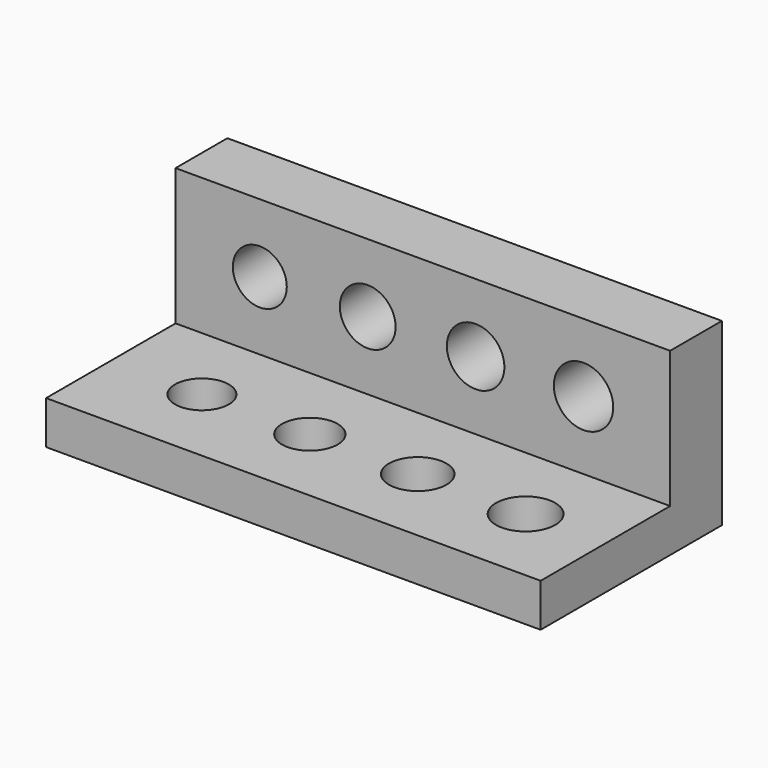
from build123d import *

# Parameters (mm, degrees)
F0_W     = 55
F0_H     = 18
F0_R     = 3
F0_R_2   = 3.1
F0_R_3   = 3.2
F0_R_4   = 3.3
F1_DEPTH = 4.8
F0_H_2   = 7.2
F2_DEPTH = 20
F3_R     = 3
F3_R_2   = 3.1
F3_R_3   = 3.2
F3_R_4   = 3.3
F4_DEPTH = 25
F5_SIZE  = 0.8


with BuildPart() as f1:
    # F0 (on Top) → F1 (new body)
    with BuildSketch(Plane.XY):
        with Locations((-27.5, -8.003877)):
            Rectangle(F0_W, F0_H)
        with Locations((-44.867948, -8.003877)):
            Circle(F0_R, mode=Mode.SUBTRACT)
        with Locations((-32.867948, -8.003877)):
            Circle(F0_R_2, mode=Mode.SUBTRACT)
        with Locations((-20.867948, -8.003877)):
            Circle(F0_R_3, mode=Mode.SUBTRACT)
        with Locations((-8.867948, -8.003877)):
            Circle(F0_R_4, mode=Mode.SUBTRACT)
    extrude(amount=F1_DEPTH)

    # F0 (on Top) → F2 (join)
    with BuildSketch(Plane.XY):
        with Locations((-27.5, 4.596123)):
            Rectangle(F0_W, F0_H_2)
    extrude(amount=F2_DEPTH)

    # F3 (on face) → F4 (cut)
    with BuildSketch(Plane.XZ.offset(-0.996123)):
        with Locations((-45.631237, 12.4)):
            Circle(F3_R)
        with Locations((-33.631237, 12.4)):
            Circle(F3_R_2)
        with Locations((-21.631237, 12.4)):
            Circle(F3_R_3)
        with Locations((-9.631237, 12.4)):
            Circle(F3_R_4)
    extrude(amount=-F4_DEPTH, mode=Mode.SUBTRACT)

    # F5
    f5_edges = [f1.edges().sort_by_distance(p)[0] for p in [
        (-47.867948, -8.003877, 0),
        (-35.967948, -8.003877, 0),
        (-24.067948, -8.003877, 0),
        (-12.167948, -8.003877, 0),
    ]]
    chamfer(f5_edges, length=F5_SIZE)


solid = f1.part
